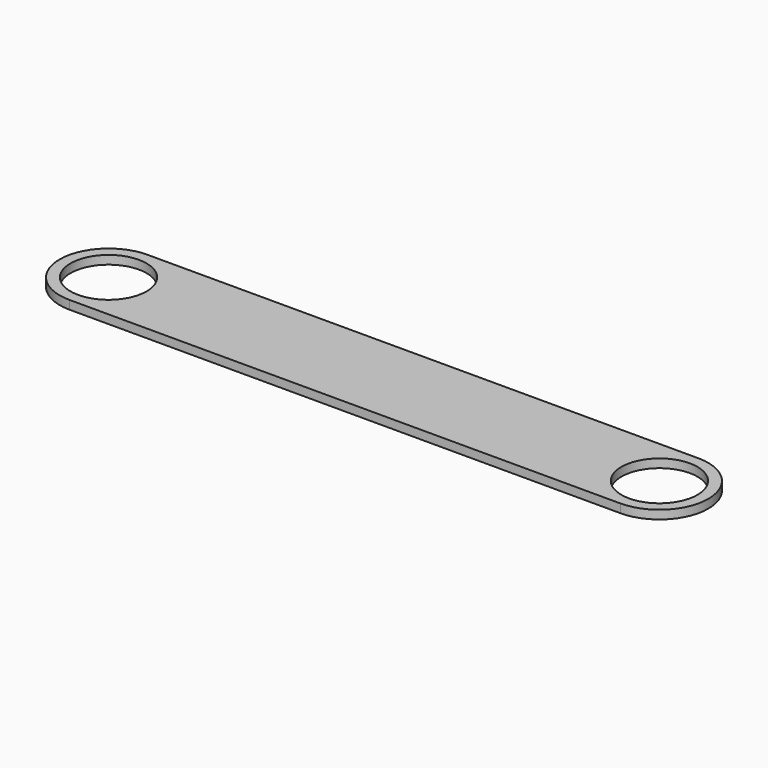
from build123d import *

# Parameters (mm, degrees)
F0_R     = 14
F1_DEPTH = 3.175


with BuildPart() as f1:
    # F0 (on Top) → F1 (new body)
    with BuildSketch(Plane.XY):
        with BuildLine():
            Line((101.5, 18), (87.5, 18))
            Line((87.5, 18), (-87.5, 18))
            Line((-87.5, 18), (-101.5, 18))
            ThreePointArc((-101.5, 18), (-119.5, 0), (-101.5, -18))
            Line((-101.5, -18), (-87.5, -18))
            Line((-87.5, -18), (87.5, -18))
            Line((87.5, -18), (101.5, -18))
            ThreePointArc((101.5, -18), (119.5, 0), (101.5, 18))
        make_face()
        with Locations((-101.5, 0)):
            Circle(F0_R, mode=Mode.SUBTRACT)
        with BuildLine():
            ThreePointArc((87.5, 0), (101.5, 14), (115.5, 0))
            ThreePointArc((115.5, 0), (101.5, -14), (87.5, 0))
        make_face(mode=Mode.SUBTRACT)
    extrude(amount=F1_DEPTH)


solid = f1.part
